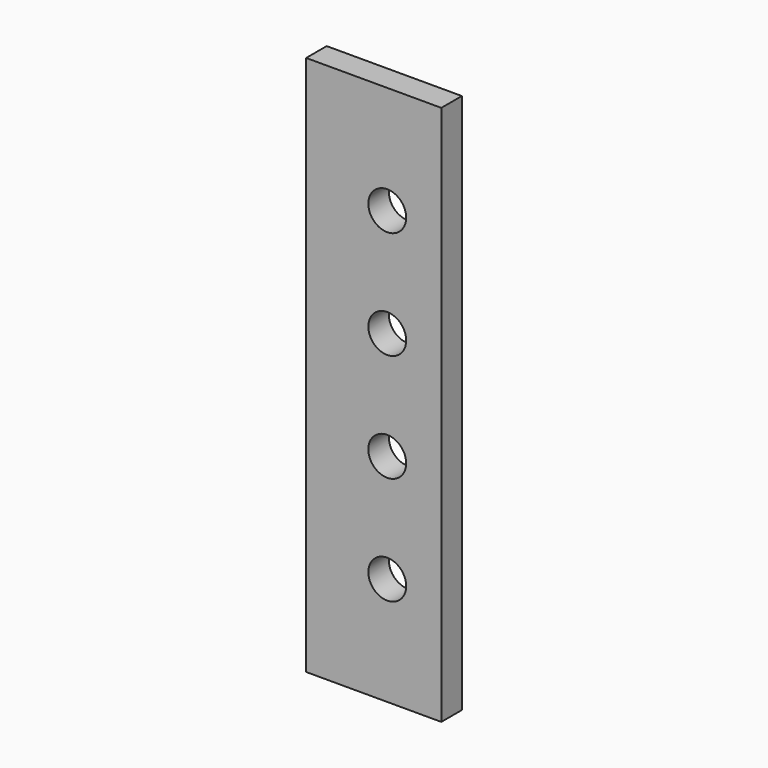
from build123d import *

# Parameters (mm, degrees)
F0_W     = 50
F0_H     = 200
F1_DEPTH = 9.5
F3_D     = 14


with BuildPart() as f1:
    # F0 (on Front) → F1 (new body)
    with BuildSketch(Plane.XZ):
        with Locations((25, 100)):
            Rectangle(F0_W, F0_H)
    extrude(amount=F1_DEPTH)

    # F3 (through all)
    with Locations(Plane.XZ.offset(9.5)):
        with Locations((30, 160), (30, 120), (30, 80), (30, 40)):
            Hole(F3_D / 2)


solid = f1.part
